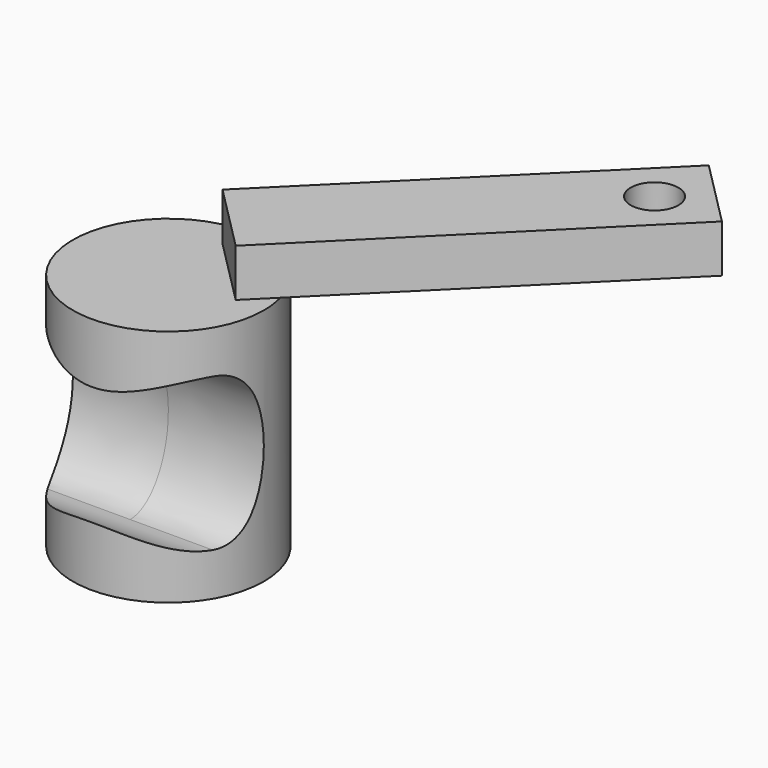
from build123d import *

# Parameters (mm, degrees)
F0_R     = 10
F1_DEPTH = 25
F3_DEPTH = 12.5
F4_R     = 2.5
F5_DEPTH = 5


with BuildPart() as f1:
    # F0 (on Top) → F1 (new body)
    with BuildSketch(Plane.XY):
        Circle(F0_R)
    extrude(amount=F1_DEPTH)

    # F2 (on Right) → F3 (cut, symmetric)
    with BuildSketch(Plane.YZ):
        with BuildLine():
            add(Edge.make_bspline(
                [(-5, 4.5), (0, 4.5), (0, 12.5), (0, 20.5), (-5, 20.5)],
                knots=[3.141593, 3.141593, 3.141593, 4.712389, 4.712389, 6.283185, 6.283185, 6.283185], degree=2, weights=[1, 0.707107, 1, 0.707107, 1]))
            add(Edge.make_bspline(
                [(-5, 20.5), (-10, 20.5), (-10, 12.5), (-10, 4.5), (-5, 4.5)],
                knots=[0, 0, 0, 1.570796, 1.570796, 3.141593, 3.141593, 3.141593], degree=2, weights=[1, 0.707107, 1, 0.707107, 1]))
        make_face()
        with BuildLine():
            add(Edge.make_bspline(
                [(-5, 20.5), (-10, 20.5), (-10, 12.5), (-10, 4.5), (-5, 4.5)],
                knots=[0, 0, 0, 1.570796, 1.570796, 3.141593, 3.141593, 3.141593], degree=2, weights=[1, 0.707107, 1, 0.707107, 1]))
            ThreePointArc((-5, 20.5), (-13, 12.5), (-5, 4.5))
        make_face()
    extrude(amount=F3_DEPTH, both=True, mode=Mode.SUBTRACT)

    # F4 (on face) → F5 (join)
    with BuildSketch(Plane.XY.offset(25)):
        Polygon((28.368292, 35.292073), (0, 7.092073), (7.05, 0), (35.418292, 28.2), align=None)
        with Locations((28.347256, 28.221037)):
            Circle(F4_R, mode=Mode.SUBTRACT)
    extrude(amount=F5_DEPTH)


solid = f1.part
